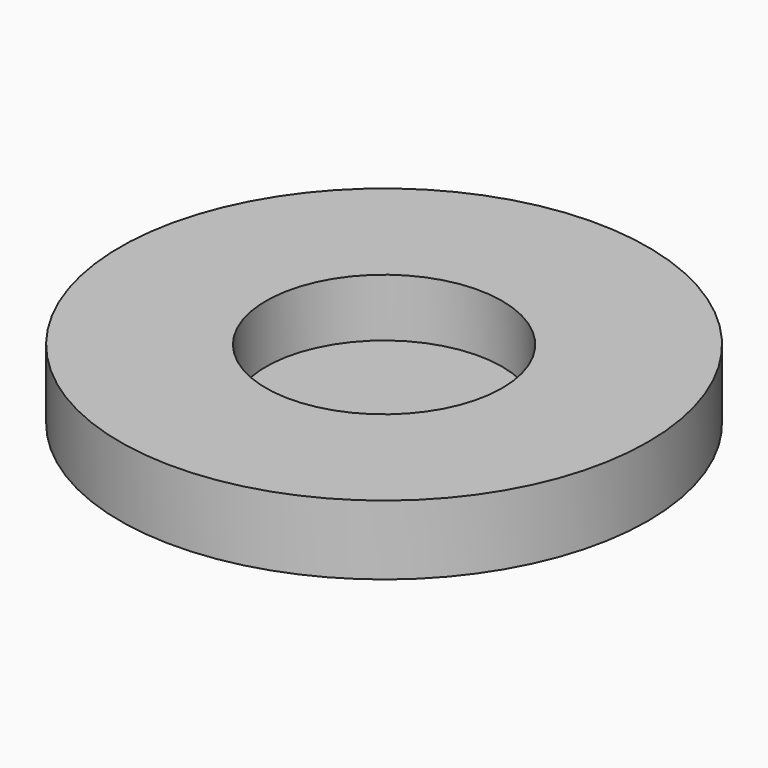
from build123d import *

# Parameters (mm, degrees)
SKETCH_R     = 11.4
PAD_DEPTH    = 3
SKETCH001_R  = 5.1
POCKET_DEPTH = 2.5


with BuildPart() as part:
    # Sketch → Pad (new body)
    with BuildSketch(Plane.XY):
        Circle(SKETCH_R)
    extrude(amount=PAD_DEPTH)

    # Sketch001 (on Face3 of Pad) → Pocket (cut)
    with BuildSketch(Plane.XY.offset(3)):
        Circle(SKETCH001_R)
    extrude(amount=-POCKET_DEPTH, mode=Mode.SUBTRACT)


solid = part.part
